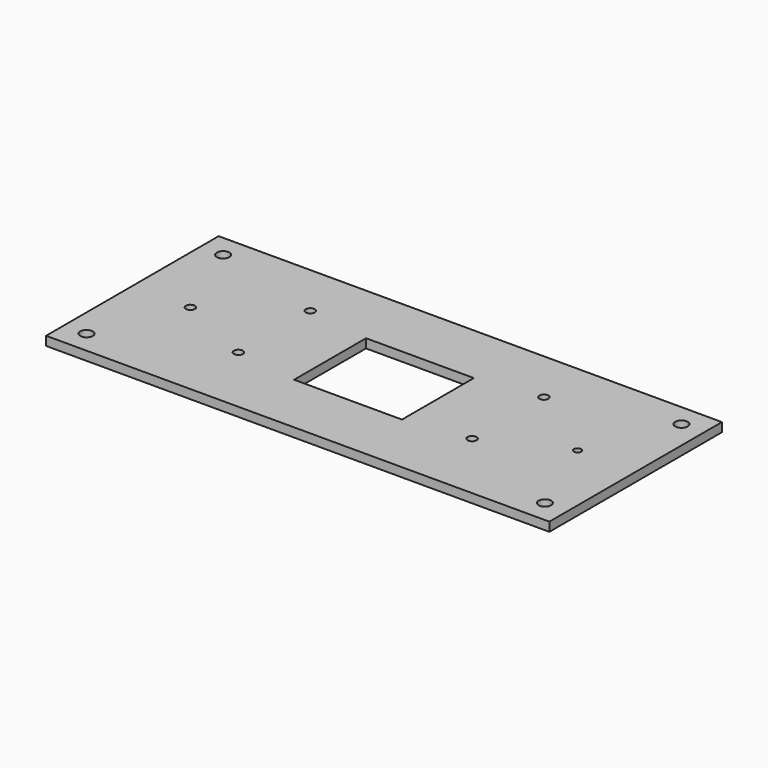
from build123d import *

# Parameters (mm, degrees)
F0_W     = 280
F0_H     = 120
F0_R     = 3.5
F0_R_2   = 2.5
F0_W_2   = 60
F0_H_2   = 50
F0_R_3   = 2
F1_DEPTH = 5


with BuildPart() as f1:
    # F0 (on Top) → F1 (new body)
    with BuildSketch(Plane.XY):
        Rectangle(F0_W, F0_H)
        with Locations((-127.5, -47.5)):
            Circle(F0_R, mode=Mode.SUBTRACT)
        with Locations((-65, -20)):
            Circle(F0_R_2, mode=Mode.SUBTRACT)
        with Locations((127.5, -47.5)):
            Circle(F0_R, mode=Mode.SUBTRACT)
        with Locations((65, -20)):
            Circle(F0_R_2, mode=Mode.SUBTRACT)
        with Locations((-107.7, 0)):
            Circle(F0_R_2, mode=Mode.SUBTRACT)
        with Locations((-127.5, 47.5)):
            Circle(F0_R, mode=Mode.SUBTRACT)
        with Locations((-65, 30)):
            Circle(F0_R_2, mode=Mode.SUBTRACT)
        Rectangle(F0_W_2, F0_H_2, mode=Mode.SUBTRACT)
        with Locations((107.7, 0)):
            Circle(F0_R_3, mode=Mode.SUBTRACT)
        with Locations((65, 30)):
            Circle(F0_R_2, mode=Mode.SUBTRACT)
        with Locations((127.5, 47.5)):
            Circle(F0_R, mode=Mode.SUBTRACT)
    extrude(amount=-F1_DEPTH)


solid = f1.part
